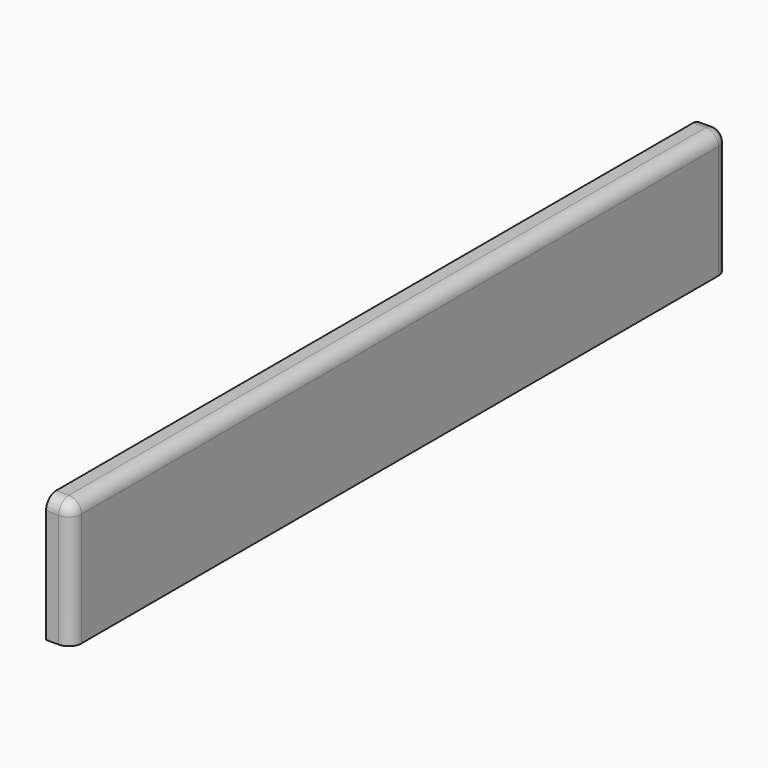
from build123d import *

# Parameters (mm, degrees)
SKETCH010_W  = 65
SKETCH010_H  = 10
PAD009_DEPTH = 2
FILLET007_R  = 1
FILLET011_R  = 1
FILLET025_R  = 1


with BuildPart() as part:
    # Sketch010 → Pad009 (new body)
    with BuildSketch(Plane.YZ):
        with Locations((0, 5)):
            Rectangle(SKETCH010_W, SKETCH010_H)
    extrude(amount=PAD009_DEPTH)

    # Fillet007
    fillet007_edges = [part.edges().sort_by_distance(p)[0] for p in [
        (2, -32.5, 5),
    ]]
    fillet(fillet007_edges, radius=FILLET007_R)

    # Fillet011
    fillet011_edges = [part.edges().sort_by_distance(p)[0] for p in [
        (2, 32.5, 5),
    ]]
    fillet(fillet011_edges, radius=FILLET011_R)

    # Fillet025
    fillet025_edges = [part.edges().sort_by_distance(p)[0] for p in [
        (2, 0, 10),
    ]]
    fillet(fillet025_edges, radius=FILLET025_R)


with BuildPart() as part_1:
    # Body009 placement: moved
    add(part.part.moved(Location((50.5, 0, 36))))


solid = part_1.part
